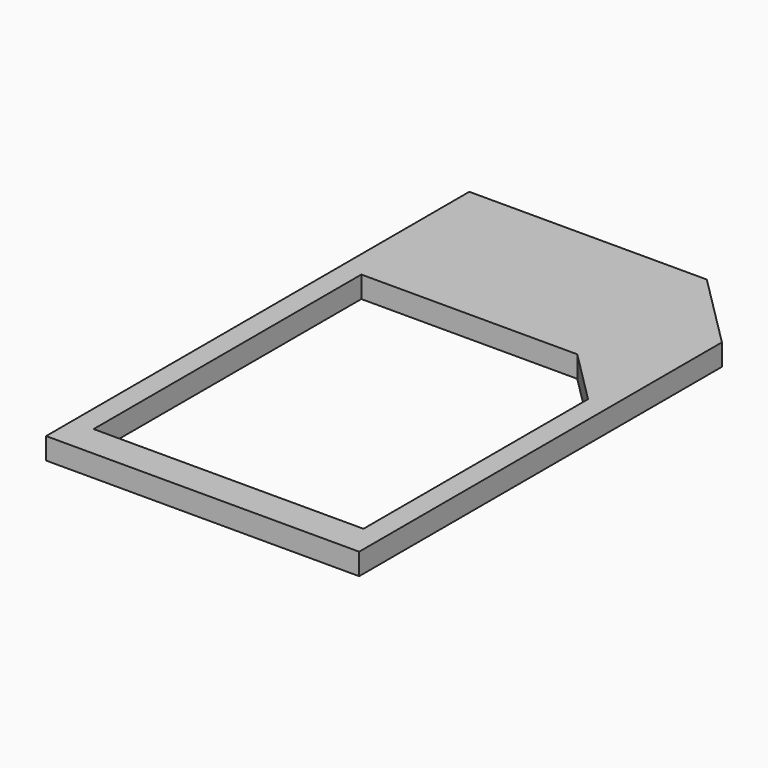
from build123d import *

# Parameters (mm, degrees)
F1_DEPTH = 1


with BuildPart() as f1:
    # F0 (on Top) → F1 (new body)
    with BuildSketch(Plane.XY):
        Polygon((-7.25, -12.25), (7.25, -12.25), (7.25, 8.75), (3.75, 12.25), (-7.25, 12.25), align=None)
        Polygon((6.25, 2.25), (6.25, -10.75), (-6.25, -10.75), (-6.25, 4.75), (3.75, 4.75), align=None, mode=Mode.SUBTRACT)
        Polygon((-7.25, -12.25), (7.25, -12.25), (7.25, 8.75), (3.75, 12.25), (-7.25, 12.25), align=None)
        Polygon((6.25, 2.25), (6.25, -10.75), (-6.25, -10.75), (-6.25, 4.75), (3.75, 4.75), align=None, mode=Mode.SUBTRACT)
    extrude(amount=F1_DEPTH)


solid = f1.part
